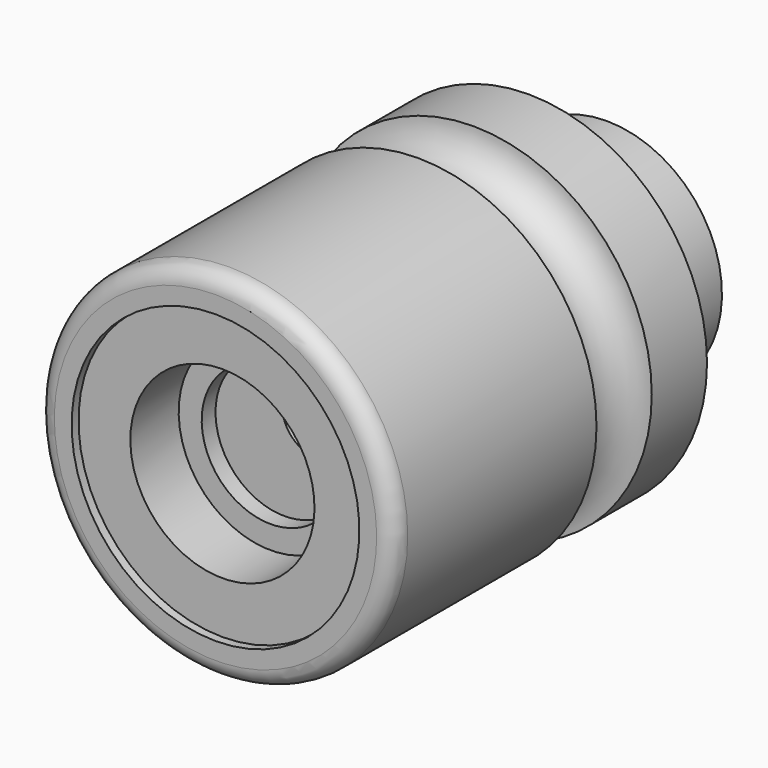
from build123d import *

# Parameters (mm, degrees)
F2_R = 3


with BuildPart() as f1:
    # F0 (on Right) → F1 (revolve)
    with BuildSketch(Plane.YZ):
        with BuildLine():
            Line((0, 31), (0, 25))
            Line((0, 25), (1.5, 25))
            Line((1.5, 25), (1.5, 16))
            Line((1.5, 16), (12, 16))
            Line((12, 16), (12, 12))
            Line((12, 12), (15, 12))
            Line((15, 12), (15, 20.5))
            Line((15, 20.5), (22, 20.5))
            Line((22, 20.5), (22, 6))
            Line((22, 6), (88, 6))
            Line((88, 6), (88, 16))
            Line((88, 16), (85, 16))
            Line((85, 16), (85, 20))
            Line((85, 20), (68, 20))
            Line((68, 20), (68, 31))
            Line((68, 31), (56, 31))
            ThreePointArc((56, 31), (50, 25), (44, 31))
            Line((44, 31), (0, 31))
        make_face()
    revolve(axis=Axis((0, 44, 0), (0, 1, 0)))

    # F2
    f2_edges = [f1.edges().sort_by_distance(p)[0] for p in [
        (0, 0, -31),
    ]]
    fillet(f2_edges, radius=F2_R)


solid = f1.part
